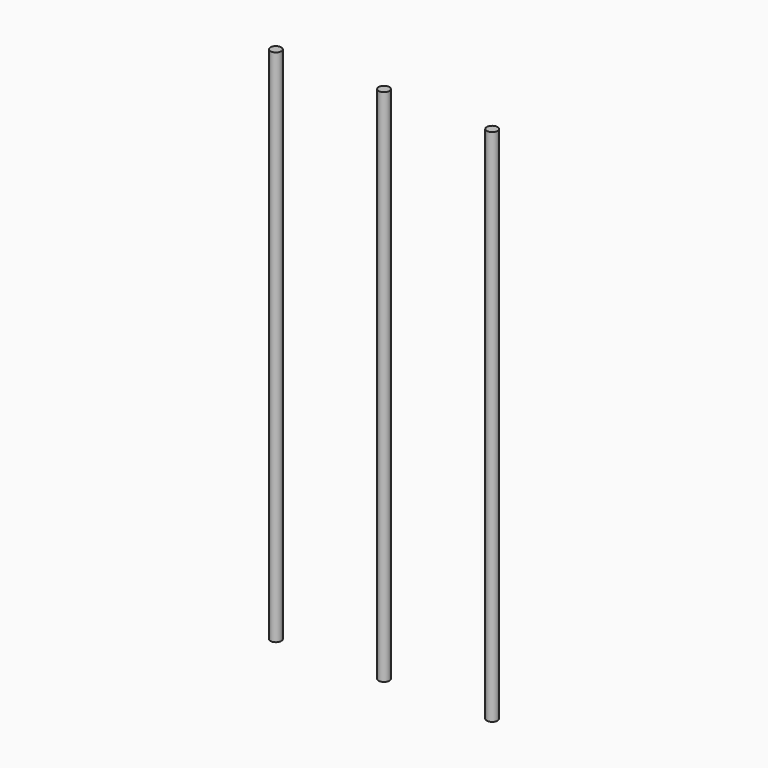
from build123d import *

# Parameters (mm, degrees)
F0_R          = 2.5
F1_DEPTH      = 220
F1_DEPTH_BACK = 20


with BuildPart() as f1:
    # F0 (on Top) → F1 (new body, two sides)
    with BuildSketch(Plane.XY) as f1_sk:
        Circle(F0_R)
        with Locations((50, 0)):
            Circle(F0_R)
        with Locations((-49.871642, -0.151778)):
            Circle(F0_R)
    extrude(amount=F1_DEPTH)
    extrude(f1_sk.sketch, amount=-F1_DEPTH_BACK)


solid = f1.part
